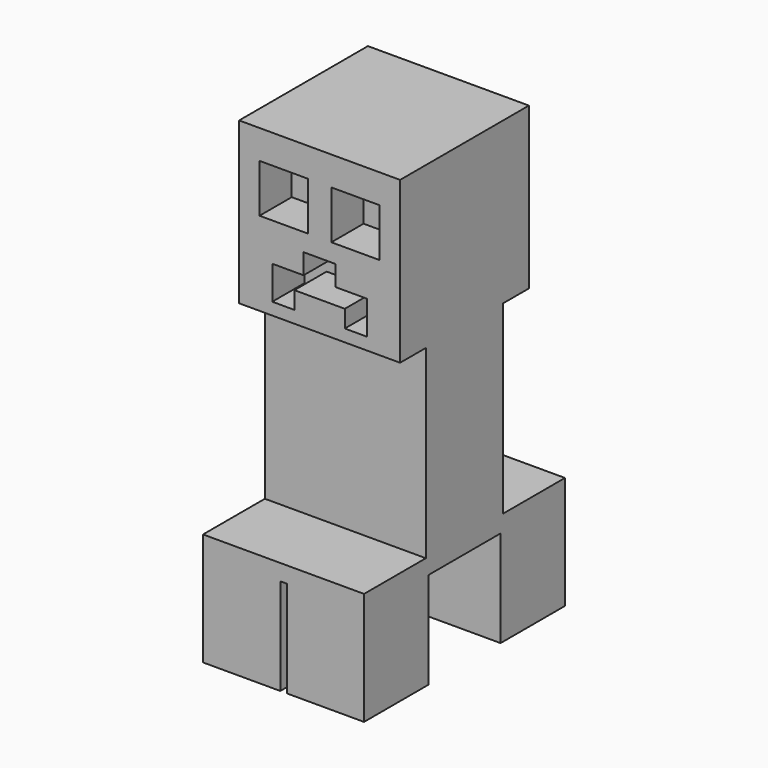
from build123d import *

# Parameters (mm, degrees)
F0_W     = 100
F0_H     = 100
F1_DEPTH = 100
F2_W     = 30
F2_H     = 30
F3_DEPTH = 25
F4_W     = 50
F4_H     = 30
F5_DEPTH = 115
F6_W     = 100
F6_H     = 156
F7_DEPTH = 10
F8_W     = 48
F8_H     = 50
F9_DEPTH = 60


with BuildPart() as f1:
    # F0 (on Top) → F1 (new body)
    with BuildSketch(Plane.XY):
        Rectangle(F0_W, F0_H)
    extrude(amount=F1_DEPTH)

    # F2 (on face) → F3 (cut)
    with BuildSketch(Plane.XZ.offset(50)):
        with Locations((-22.308369, 67.011483)):
            Rectangle(F2_W, F2_H)
        with Locations((22.308369, 67.011483)):
            Rectangle(F2_W, F2_H)
        Polygon((9.954443, 40.98089), (0, 40.98089), (-9.954443, 40.98089), (-9.954443, 28.341211), (-29.406976, 28.341211), (-29.406976, 7.562513), (-15.657233, 7.562513), (-15.657233, 18.356016), (0, 18.356016), (15.657233, 18.356016), (15.657233, 7.562513), (29.406976, 7.562513), (29.406976, 28.341211), (9.954443, 28.341211), align=None)
    extrude(amount=-F3_DEPTH, mode=Mode.SUBTRACT)

    # F4 (on face) → F5 (join)
    with BuildSketch(Plane(origin=(0, 0, 0), x_dir=(1, 0, 0), z_dir=(0, 0, -1))):
        with Locations((25, -15)):
            Rectangle(F4_W, F4_H)
        with Locations((25, 15)):
            Rectangle(F4_W, F4_H)
        with Locations((-25, -15)):
            Rectangle(F4_W, F4_H)
        with Locations((-25, 15)):
            Rectangle(F4_W, F4_H)
    extrude(amount=F5_DEPTH)

    # F6 (on face) → F7 (join)
    with BuildSketch(Plane(origin=(0, 0, -115), x_dir=(1, 0, 0), z_dir=(0, 0, -1))):
        Rectangle(F6_W, F6_H)
    extrude(amount=F7_DEPTH)

    # F8 (on face) → F9 (join)
    with BuildSketch(Plane(origin=(0, 0, -125), x_dir=(1, 0, 0), z_dir=(0, 0, -1))):
        with Locations((-26, 53)):
            Rectangle(F8_W, F8_H)
        with Locations((26, 53)):
            Rectangle(F8_W, F8_H)
        with Locations((-26, -53)):
            Rectangle(F8_W, F8_H)
        with Locations((26, -53)):
            Rectangle(F8_W, F8_H)
    extrude(amount=F9_DEPTH)


solid = f1.part
